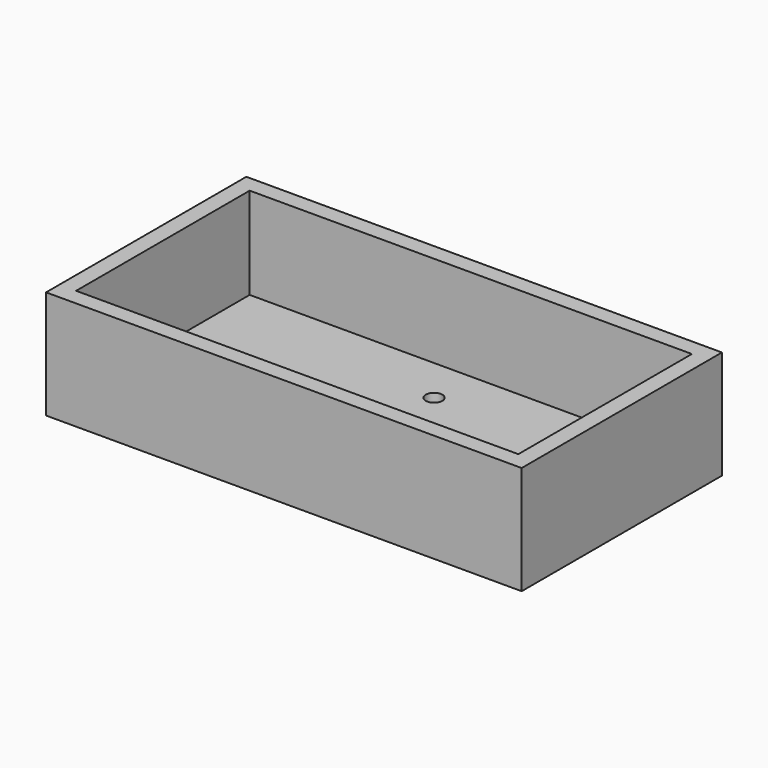
from build123d import *

# Parameters (mm, degrees)
SKETCH_W        = 57
SKETCH_H        = 30
PAD_DEPTH       = 13
SKETCH001_W     = 53
SKETCH001_H     = 26
POCKET_DEPTH    = 11
SKETCH002_R     = 1
POCKET001_DEPTH = 2.001


with BuildPart() as part:
    # Sketch → Pad (new body)
    with BuildSketch(Plane.XY):
        with Locations((0, 15)):
            Rectangle(SKETCH_W, SKETCH_H)
    extrude(amount=PAD_DEPTH)

    # Sketch001 (on Face6 of Pad) → Pocket (cut)
    with BuildSketch(Plane.XY.offset(13)):
        with Locations((0, 15)):
            Rectangle(SKETCH001_W, SKETCH001_H)
    extrude(amount=-POCKET_DEPTH, mode=Mode.SUBTRACT)

    # Sketch002 (on Face11 of Pocket) → Pocket001 (cut, through all)
    with BuildSketch(Plane.XY.offset(2)):
        with Locations((0, 22.5)):
            Circle(SKETCH002_R)
        with Locations((0, 7.5)):
            Circle(SKETCH002_R)
    extrude(amount=-POCKET001_DEPTH, mode=Mode.SUBTRACT)


solid = part.part
